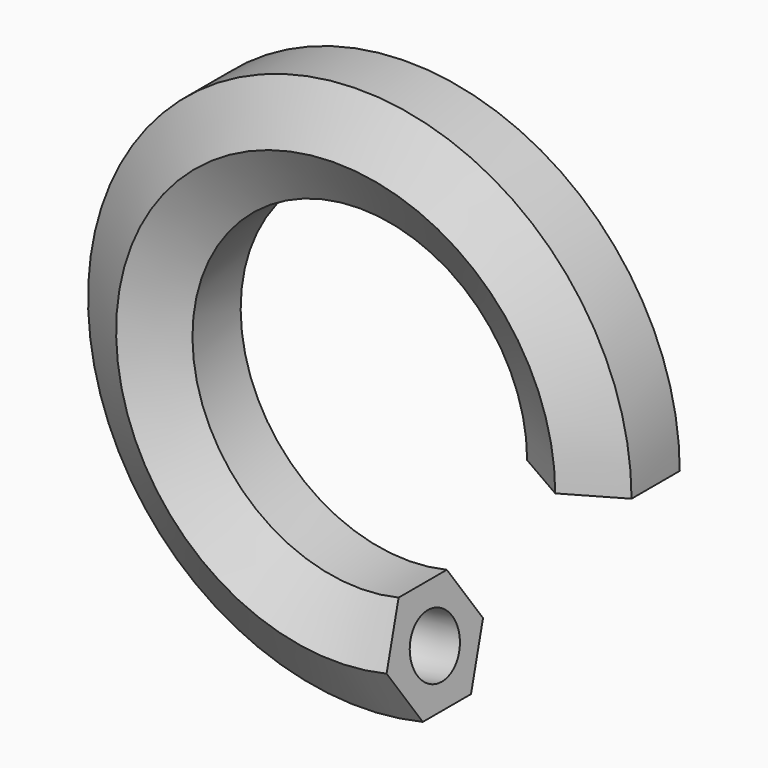
from build123d import *

# Parameters (mm, degrees)
F0_R     = 5
F1_ANGLE = 283.41057


with BuildPart() as f1:
    # F0 (on Top) → F1 (revolve)
    with BuildSketch(Plane.XY):
        Polygon((8.660254, -5), (8.660254, 5), (0, 10), (-8.660254, 5), (-8.660254, -5), (0, -10), align=None)
        Circle(F0_R, mode=Mode.SUBTRACT)
    revolve(axis=Axis((-36.425274, -12.058022, 0), (0, -1, 0)), revolution_arc=F1_ANGLE)


solid = f1.part
